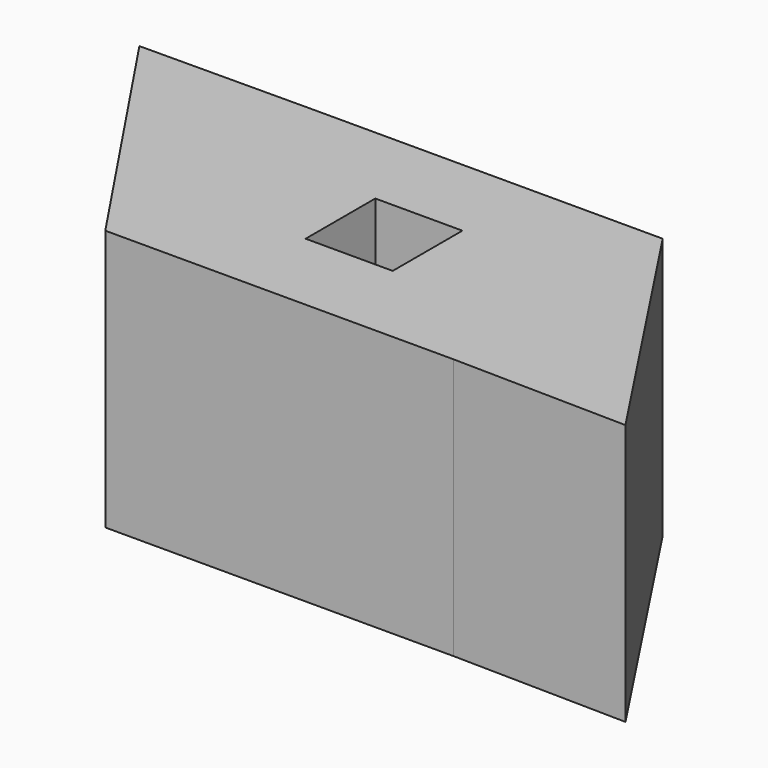
from build123d import *

# Parameters (mm, degrees)
F0_W     = 40
F0_H     = 30
F0_W_2   = 10
F0_H_2   = 10
F1_DEPTH = 30


with BuildPart() as f1:
    # F0 (on Top) → F1 (new body)
    with BuildSketch(Plane.XY):
        Polygon((-47.546719, -19.716425), (-47.546719, 10.283575), (-67.546442, 10.178305), align=None)
        with Locations((-27.546719, -4.716425)):
            Rectangle(F0_W, F0_H)
        with Locations((-27.546719, -4.716425)):
            Rectangle(F0_W_2, F0_H_2, mode=Mode.SUBTRACT)
        Polygon((12.450289, -20.062395), (-7.546719, 10.283575), (-7.546719, -19.716425), align=None)
    extrude(amount=F1_DEPTH)


solid = f1.part
